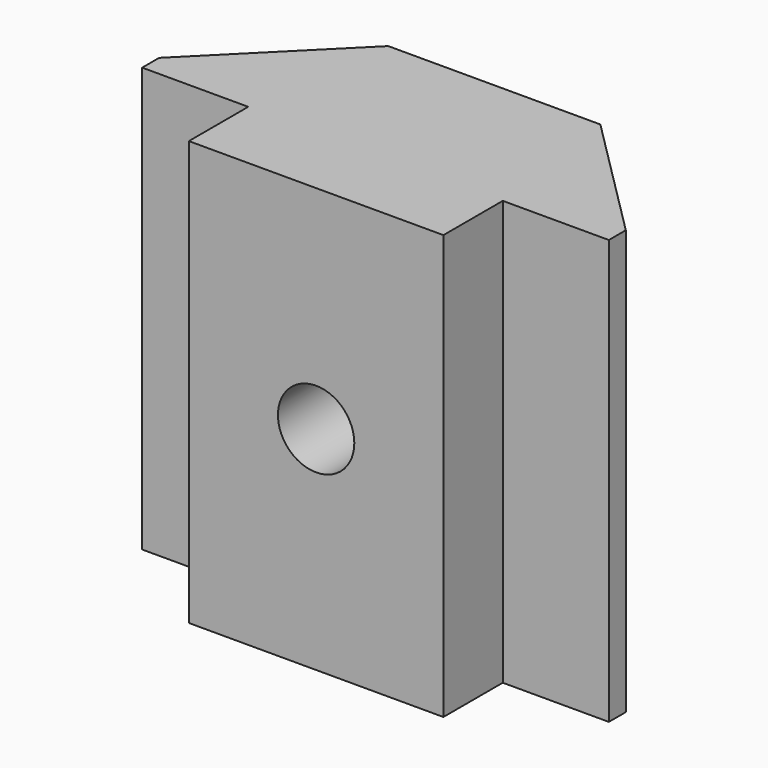
from build123d import *

# Parameters (mm, degrees)
F1_DEPTH = 5
F2_R     = 0.9
F3_DEPTH = 5.25
F4_R     = 1.7
F5_DEPTH = 3


with BuildPart() as f1:
    # F0 (on Top) → F1 (new body, symmetric)
    with BuildSketch(Plane.XY):
        Polygon((-3, 1.75), (-3, 0), (3, 0), (3, 1.75), (5.5, 1.75), (5.5, 2.25), (2.5, 5.25), (-2.5, 5.25), (-5.5, 2.25), (-5.5, 1.75), align=None)
    extrude(amount=F1_DEPTH, both=True)

    # F2 (on face) → F3 (cut, through all)
    with BuildSketch(Plane.XZ):
        Circle(F2_R)
    extrude(amount=-F3_DEPTH, mode=Mode.SUBTRACT)

    # F4 (on face) → F5 (cut)
    with BuildSketch(Plane(origin=(0, 5.25, 0), x_dir=(-1, 0, 0), z_dir=(0, 1, 0))):
        Circle(F4_R)
    extrude(amount=-F5_DEPTH, mode=Mode.SUBTRACT)


solid = f1.part
